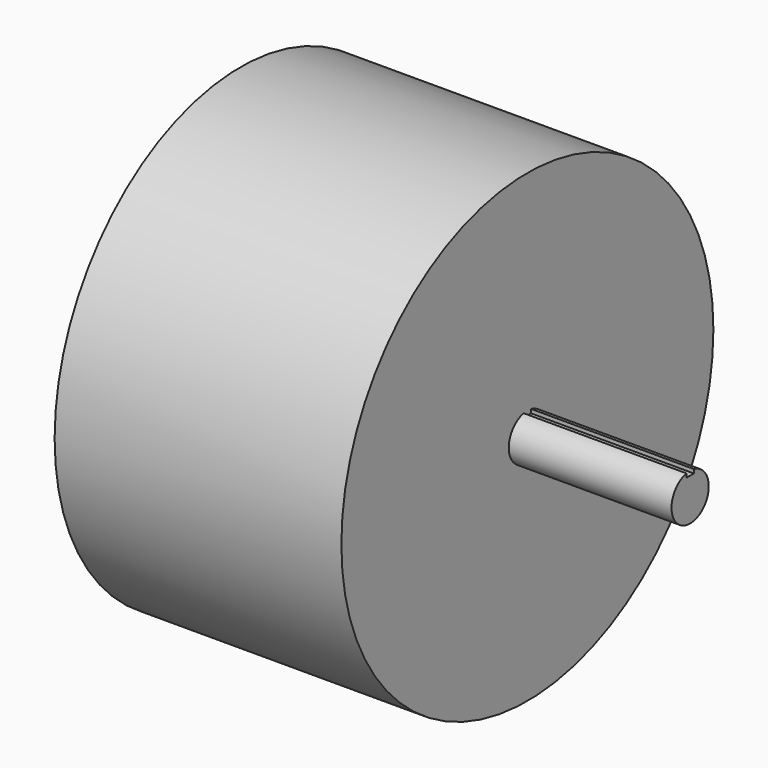
from build123d import *

# Parameters (mm, degrees)
SKETCH002_R  = 150
PAD002_DEPTH = 185
PAD003_DEPTH = 105
PAD004_DEPTH = 70


with BuildPart() as part:
    # Sketch002 → Pad002 (new body)
    with BuildSketch(Plane.YZ):
        Circle(SKETCH002_R)
    extrude(amount=PAD002_DEPTH)

    # Sketch003 (on Face3 of Pad002) → Pad003 (join)
    with BuildSketch(Plane.YZ.offset(185)):
        with BuildLine():
            Line((-3, 14.696938), (-3, 12.196938))
            Line((-3, 12.196938), (3, 12.196938))
            Line((3, 12.196938), (3, 14.696938))
            ThreePointArc((-3, 14.696938), (0, -15), (3, 14.696938))
        make_face()
    extrude(amount=PAD003_DEPTH)

    # Sketch004 (on Face2 of Pad003) → Pad004 (join)
    with BuildSketch(Plane(origin=(0, 0, 0), x_dir=(0, 1, 0), z_dir=(-1, 0, 0))):
        with BuildLine():
            Line((-3, -14.696938), (-3, -12.196938))
            Line((-3, -12.196938), (3, -12.196938))
            Line((3, -12.196938), (3, -14.696938))
            ThreePointArc((3, -14.696938), (0, 15), (-3, -14.696938))
        make_face()
    extrude(amount=PAD004_DEPTH)


with BuildPart() as part_1:
    # Body001 placement: moved
    add(part.part.moved(Location((-110, 174, 189))))


solid = part_1.part
